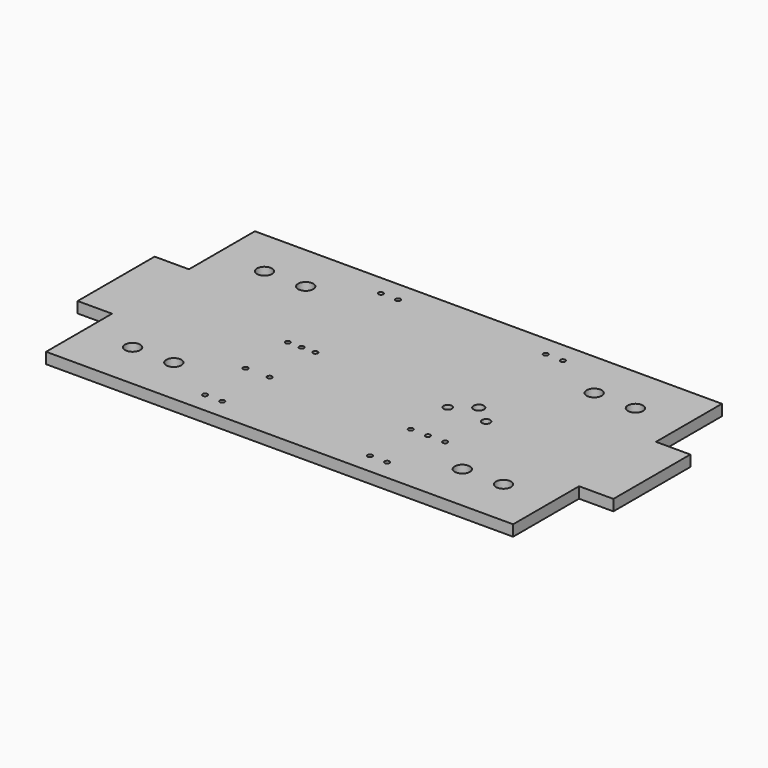
from build123d import *

# Parameters (mm, degrees)
F0_W     = 68
F0_H     = 12
F0_W_2   = 5
F0_H_2   = 14
F1_DEPTH = 1.6
F4_R     = 0.35
F5_R     = 0.35
F6_R     = 0.35
F2_R     = 0.35
F7_DEPTH = 4
F8_R     = 1.1
F9_DEPTH = 25


with BuildPart() as f1:
    # F0 (on Top) → F1 (new body)
    with BuildSketch(Plane.XY):
        with Locations((41.3172904253, 1.6970097786)):
            Rectangle(F0_W, F0_H)
        with Locations((4.8172904253, 14.6970097786)):
            Rectangle(F0_W_2, F0_H_2)
        with Locations((41.3172904253, 14.6970097786)):
            Rectangle(F0_W, F0_H_2)
        with Locations((77.8172904253, 14.6970097786)):
            Rectangle(F0_W_2, F0_H_2)
        with Locations((41.3172904253, 27.6970097786)):
            Rectangle(F0_W, F0_H)
    extrude(amount=F1_DEPTH)

    # F4 (on face) + F5 (on face) + F6 (on face) + F3 (on face) + F2 (on face) → F7 (cut)
    with BuildSketch(Plane.XY.offset(1.6)):
        with Locations((51.6172904253, 6.6970097786)):
            Circle(F4_R)
        with Locations((56.6172904253, 6.6970097786)):
            Circle(F4_R)
        with Locations((54.1172904253, 6.6970097786)):
            Circle(F4_R)
    with BuildSketch(Plane.XY.offset(1.6)):
        with Locations((28.0672904253, -1.3029902214)):
            Circle(F5_R)
        with Locations((30.5672904253, -1.3029902214)):
            Circle(F5_R)
        with Locations((52.0672904253, -1.3029902214)):
            Circle(F5_R)
        with Locations((54.5672904253, -1.3029902214)):
            Circle(F5_R)
        with Locations((54.5672904253, 30.6970097786)):
            Circle(F5_R)
        with Locations((52.0672904253, 30.6970097786)):
            Circle(F5_R)
        with Locations((30.5672904253, 30.6970097786)):
            Circle(F5_R)
        with Locations((28.0672904253, 30.6970097786)):
            Circle(F5_R)
    with BuildSketch(Plane.XY.offset(1.6)):
        with Locations((27.5672904253, 6.6970097786)):
            Circle(F6_R)
        with Locations((31.0672904253, 6.6970097786)):
            Circle(F6_R)
    with BuildSketch(Plane.XY.offset(1.6)):
        with BuildLine():
            Line((54.8172904253, 15.4470097786), (53.8172904253, 15.4470097786))
            ThreePointArc((53.8172904253, 15.4470097786), (53.640513733, 15.5202330803), (53.5672904253, 15.6970097701))
            ThreePointArc((53.5672904253, 15.6970097701), (54.3172904296, 14.9470097786), (55.0672904253, 15.6970097786))
            ThreePointArc((55.0672904253, 15.6970097786), (54.9940671206, 15.5202330833), (54.8172904253, 15.4470097786))
        make_face()
        with BuildLine():
            ThreePointArc((53.5672904253, 15.6970097701), (53.640513733, 15.5202330803), (53.8172904253, 15.4470097786))
            Line((53.8172904253, 15.4470097786), (54.8172904253, 15.4470097786))
            ThreePointArc((54.8172904253, 15.4470097786), (54.9940671206, 15.5202330833), (55.0672904253, 15.6970097786))
            ThreePointArc((55.0672904253, 15.6970097786), (54.9940671206, 15.8737864739), (54.8172904253, 15.9470097786))
            Line((54.8172904253, 15.9470097786), (53.8172904253, 15.9470097786))
            ThreePointArc((53.8172904253, 15.9470097786), (53.640513727, 15.8737864709), (53.5672904253, 15.6970097701))
        make_face()
        with BuildLine():
            ThreePointArc((55.0672904253, 15.6970097786), (54.317290421, 16.4470097786), (53.5672904253, 15.6970097701))
            ThreePointArc((53.5672904253, 15.6970097701), (53.640513727, 15.8737864709), (53.8172904253, 15.9470097786))
            Line((53.8172904253, 15.9470097786), (54.8172904253, 15.9470097786))
            ThreePointArc((54.8172904253, 15.9470097786), (54.9940671206, 15.8737864739), (55.0672904253, 15.6970097786))
        make_face()
        with BuildLine():
            Line((51.1672904253, 13.7970097786), (51.8672904253, 13.7970097786))
            ThreePointArc((51.8672904253, 13.7970097786), (52.0440671206, 13.7237864739), (52.1172904253, 13.5470097786))
            ThreePointArc((52.1172904253, 13.5470097786), (51.5172904253, 14.1470097786), (50.9172904253, 13.5470097786))
            ThreePointArc((50.9172904253, 13.5470097786), (50.99051373, 13.7237864739), (51.1672904253, 13.7970097786))
        make_face()
        with BuildLine():
            ThreePointArc((52.1172904253, 13.5470097786), (52.0440671206, 13.7237864739), (51.8672904253, 13.7970097786))
            Line((51.8672904253, 13.7970097786), (51.1672904253, 13.7970097786))
            ThreePointArc((51.1672904253, 13.7970097786), (50.99051373, 13.7237864739), (50.9172904253, 13.5470097786))
            ThreePointArc((50.9172904253, 13.5470097786), (50.99051373, 13.3702330833), (51.1672904253, 13.2970097786))
            Line((51.1672904253, 13.2970097786), (51.8672904253, 13.2970097786))
            ThreePointArc((51.8672904253, 13.2970097786), (52.0440671206, 13.3702330833), (52.1172904253, 13.5470097786))
        make_face()
        with BuildLine():
            ThreePointArc((50.9172904253, 13.5470097786), (51.5172904253, 12.9470097786), (52.1172904253, 13.5470097786))
            ThreePointArc((52.1172904253, 13.5470097786), (52.0440671206, 13.3702330833), (51.8672904253, 13.2970097786))
            Line((51.8672904253, 13.2970097786), (51.1672904253, 13.2970097786))
            ThreePointArc((51.1672904253, 13.2970097786), (50.99051373, 13.3702330833), (50.9172904253, 13.5470097786))
        make_face()
        with BuildLine():
            Line((56.7672904253, 13.2970097786), (57.4672904253, 13.2970097786))
            ThreePointArc((57.4672904253, 13.2970097786), (57.6440671206, 13.3702330833), (57.7172904253, 13.5470097786))
            ThreePointArc((57.7172904253, 13.5470097786), (57.6440671206, 13.7237864739), (57.4672904253, 13.7970097786))
            Line((57.4672904253, 13.7970097786), (56.7672904253, 13.7970097786))
            ThreePointArc((56.7672904253, 13.7970097786), (56.59051373, 13.7237864739), (56.5172904253, 13.5470097786))
            ThreePointArc((56.5172904253, 13.5470097786), (56.59051373, 13.3702330833), (56.7672904253, 13.2970097786))
        make_face()
        with BuildLine():
            ThreePointArc((57.7172904253, 13.5470097786), (57.6440671206, 13.3702330833), (57.4672904253, 13.2970097786))
            Line((57.4672904253, 13.2970097786), (56.7672904253, 13.2970097786))
            ThreePointArc((56.7672904253, 13.2970097786), (56.59051373, 13.3702330833), (56.5172904253, 13.5470097786))
            ThreePointArc((56.5172904253, 13.5470097786), (57.1172904253, 12.9470097786), (57.7172904253, 13.5470097786))
        make_face()
        with BuildLine():
            ThreePointArc((57.4672904253, 13.7970097786), (57.6440671206, 13.7237864739), (57.7172904253, 13.5470097786))
            ThreePointArc((57.7172904253, 13.5470097786), (57.1172904253, 14.1470097786), (56.5172904253, 13.5470097786))
            ThreePointArc((56.5172904253, 13.5470097786), (56.59051373, 13.7237864739), (56.7672904253, 13.7970097786))
            Line((56.7672904253, 13.7970097786), (57.4672904253, 13.7970097786))
        make_face()
    with BuildSketch(Plane.XY.offset(1.6)):
        with Locations((27.3172904253, 14.6970097786)):
            Circle(F2_R)
        with Locations((29.3172904253, 14.6970097786)):
            Circle(F2_R)
        with Locations((31.3172904253, 14.6970097786)):
            Circle(F2_R)
    extrude(amount=-F7_DEPTH, mode=Mode.SUBTRACT)

    # F8 (on face) → F9 (cut)
    with BuildSketch(Plane.XY.offset(1.6)):
        with Locations((62.3172904253, 26.6970097786)):
            Circle(F8_R)
        with Locations((20.3172904253, 26.6970097786)):
            Circle(F8_R)
        with Locations((68.3172904253, 2.6970097786)):
            Circle(F8_R)
        with Locations((14.3172904253, 2.6970097786)):
            Circle(F8_R)
        with Locations((62.3172904253, 2.6970097786)):
            Circle(F8_R)
        with Locations((20.3172904253, 2.6970097786)):
            Circle(F8_R)
        with Locations((68.3172904253, 26.6970097786)):
            Circle(F8_R)
        with Locations((14.3172904253, 26.6970097786)):
            Circle(F8_R)
    extrude(amount=-F9_DEPTH, mode=Mode.SUBTRACT)


solid = f1.part
